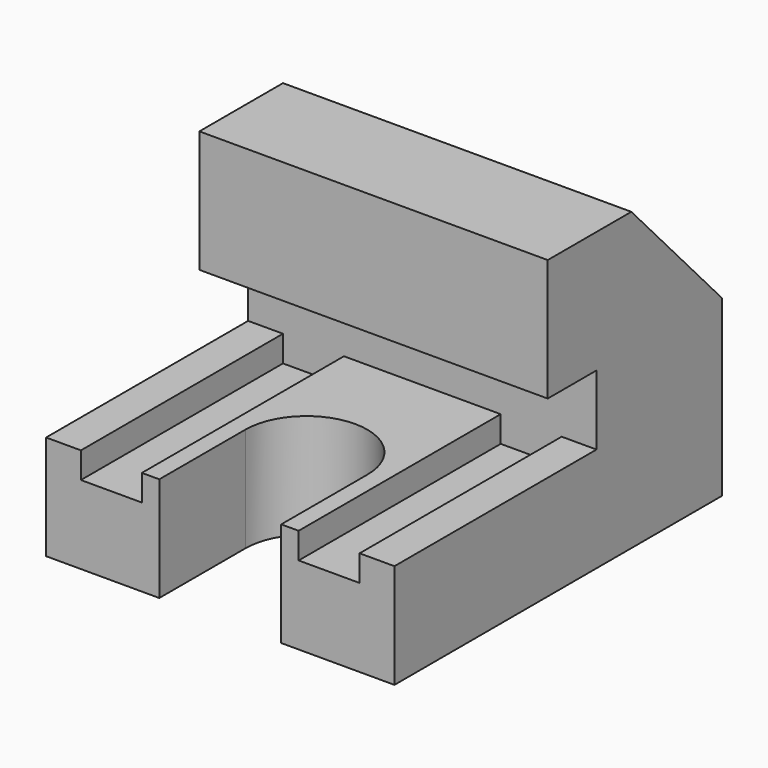
from build123d import *

# Parameters (mm, degrees)
PAD_DEPTH         = 20
POCKET_DEPTH      = 6.001
POCKET_DEPTH_BACK = -28.001


with BuildPart() as part:
    # AdditivePipe: sweep along a path in Sketch
    with BuildLine(Plane.XY) as additivepipe_path:
        Line((0, 0), (0, 47))
    # Sketch001 → AdditivePipe (sweep)
    with BuildSketch(Plane.XZ):
        Polygon((-20, 6), (-20, -6), (-16, -6), (-9, -6), (9, -6), (16, -6), (20, -6), (20, 6), (16, 6), (16, 3), (9, 3), (9, 6), (-9, 6), (-9, 3), (-16, 3), (-16, 6), align=None)
    sweep(path=additivepipe_path.line)

    # Sketch002 → Pad (new body, symmetric)
    with BuildSketch(Plane.YZ):
        Polygon((47, 3), (47, 14), (34, 28), (22, 28), (22, 14), (29, 14), (29, 3), align=None)
    extrude(amount=PAD_DEPTH, both=True)

    # Sketch003 → Pocket (cut, two sides)
    with BuildSketch(Plane.XY) as pocket_sk:
        with BuildLine():
            ThreePointArc((7, 12.362), (0, 19.362), (-7, 12.362))
            Line((-7, 12.362), (-7, 0))
            Line((-7, 0), (7, 0))
            Line((7, 12.362), (7, 0))
        make_face()
    extrude(amount=-POCKET_DEPTH, mode=Mode.SUBTRACT)
    extrude(pocket_sk.sketch, amount=-POCKET_DEPTH_BACK, mode=Mode.SUBTRACT)


solid = part.part
